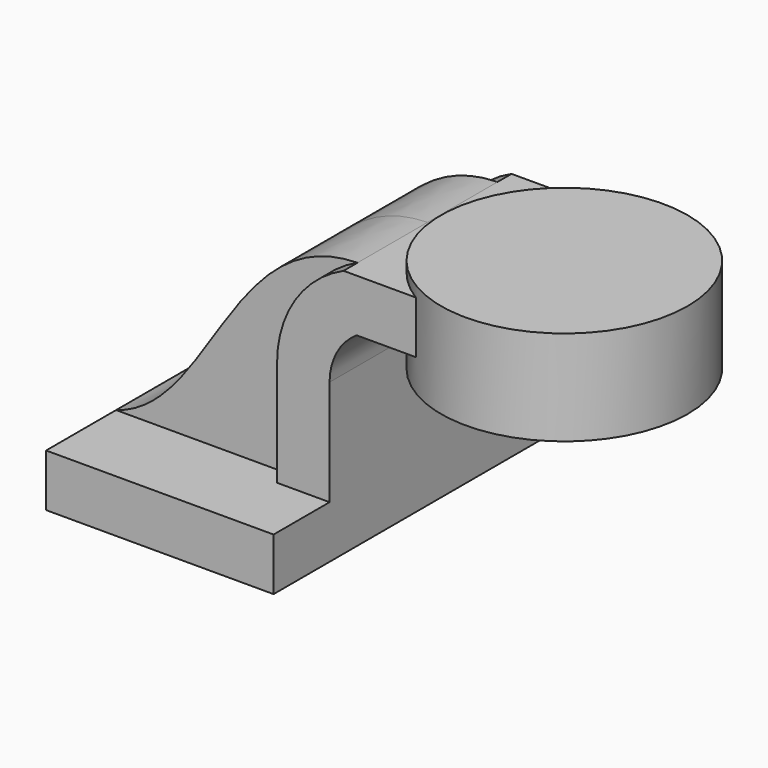
from build123d import *

# Parameters (mm, degrees)
F1_DEPTH = 63.5
F2_DEPTH = 38.1
F3_DEPTH = 31.75


with BuildPart() as f1:
    # F0 (on Front) → F1 (new body, symmetric)
    with BuildSketch(Plane.XZ):
        Polygon((22.225, 9.525), (-41.275, 9.525), (-41.275, -9.525), (41.275, -9.525), (41.275, 9.525), align=None)
    extrude(amount=F1_DEPTH, both=True)

    # F0 (on Front) → F2 (join, symmetric)
    with BuildSketch(Plane.XZ):
        with BuildLine():
            Line((22.225, 47.863565), (22.225, 9.525))
            Line((22.225, 9.525), (41.275, 9.525))
            Line((41.275, 9.525), (41.275, 47.863565))
            ThreePointArc((41.275, 47.863565), (43.886262, 58.190434), (51.092341, 66.034881))
            Line((51.092341, 66.034881), (95.982485, 66.034881))
            Line((95.982485, 66.034881), (95.982485, 85.084881))
            Line((95.982485, 85.084881), (46.350457, 85.084881))
            ThreePointArc((46.350457, 85.084881), (28.783869, 70.041618), (22.225, 47.863565))
        make_face()
    extrude(amount=F2_DEPTH, both=True)

    # F0 (on Front) → F3 (join, symmetric)
    with BuildSketch(Plane.XZ):
        with BuildLine():
            add(Edge.make_bspline(
                [(-41.275, 9.525), (-6.610331, 19.785214), (0, 84.11859), (46.350457, 85.084881)],
                knots=[0, 0, 0, 0, 115.704435, 115.704435, 115.704435, 115.704435], degree=3))
            Line((-41.275, 9.525), (22.225, 9.525))
            Line((22.225, 9.525), (22.225, 47.863565))
            ThreePointArc((22.225, 47.863565), (28.783869, 70.041618), (46.350457, 85.084881))
        make_face()
    extrude(amount=F3_DEPTH, both=True)

    # F0 (on Front) → F4 (revolve)
    with BuildSketch(Plane.XZ):
        Polygon((95.982485, 88.993471), (95.982485, 85.084881), (95.982485, 66.034881), (95.982485, 54.514322), (140.712164, 54.514322), (140.712164, 88.993471), align=None)
    revolve(axis=Axis((95.982485, 0, 71.753897), (0, 0, 1)))


solid = f1.part
